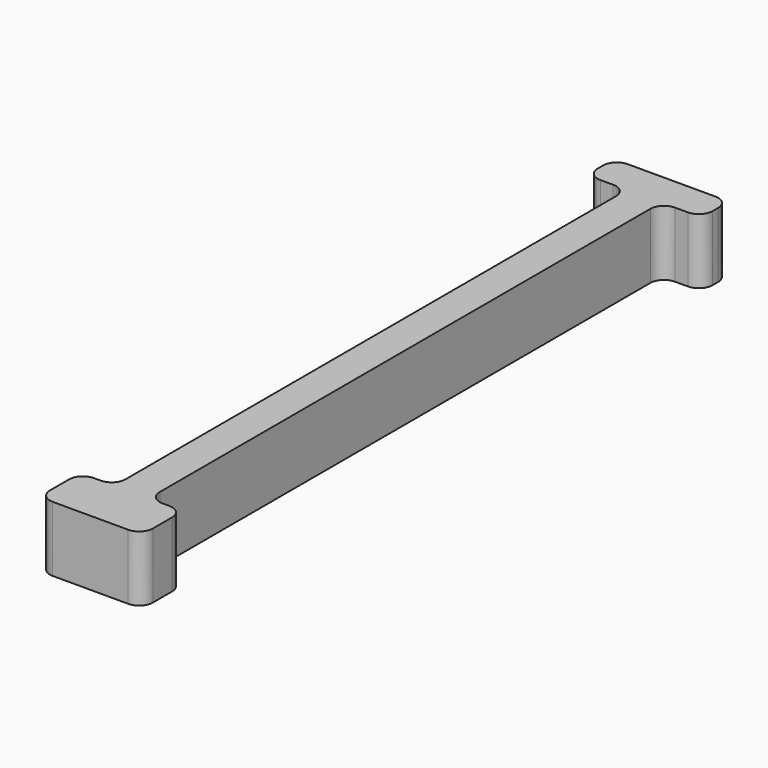
from build123d import *

# Parameters (mm, degrees)
PAD002_DEPTH    = 2
FILLET003_R     = 0.4
POCKET010_DEPTH = 0.1


with BuildPart() as part:
    # Sketch009 → Pad002 (new body)
    with BuildSketch(Plane.XY):
        Polygon((-1.675, -0.66), (1.675, -0.66), (1.675, -1.66), (0.5, -1.66), (0.5, -20.32), (1.5, -20.32), (1.5, -21.82), (-1.5, -21.82), (-1.5, -20.32), (-0.5, -20.32), (-0.5, -1.66), (-1.675, -1.66), align=None)
    extrude(amount=PAD002_DEPTH)

    # Fillet003
    fillet003_edges = [part.edges().sort_by_distance(p)[0] for p in [
        (-1.675, -1.66, 1),
        (-1.675, -0.66, 1),
        (1.675, -0.66, 1),
        (1.675, -1.66, 1),
        (0.5, -1.66, 1),
        (-0.5, -1.66, 1),
        (-0.5, -20.32, 1),
        (-1.5, -20.32, 1),
        (-1.5, -21.82, 1),
        (1.5, -21.82, 1),
        (1.5, -20.32, 1),
        (0.5, -20.32, 1),
    ]]
    fillet(fillet003_edges, radius=FILLET003_R)

    # Fillet003 Face5 → Pocket010 (cut)
    with BuildSketch(Plane(origin=(0, -11.4600006044, 2), x_dir=(0, 1, 0), z_dir=(0, 0, 1))):
        with BuildLine():
            Line((9.8000006044, 1.275), (9.8000006044, 0.9))
            ThreePointArc((9.8000006044, 0.9), (9.6828433168, 0.6171572875), (9.4000006044, 0.5))
            Line((9.4000006044, 0.5), (-8.4599993956, 0.5))
            ThreePointArc((-8.4599993956, 0.5), (-8.7428421081, 0.6171572875), (-8.8599993956, 0.9))
            Line((-8.8599993956, 0.9), (-8.8599993956, 1.1))
            ThreePointArc((-8.8599993956, 1.1), (-8.9771566832, 1.3828427125), (-9.2599993956, 1.5))
            Line((-9.2599993956, 1.5), (-9.9599993956, 1.5))
            ThreePointArc((-9.9599993956, 1.5), (-10.2428421081, 1.3828427125), (-10.3599993956, 1.1))
            Line((-10.3599993956, 1.1), (-10.3599993956, -1.1))
            ThreePointArc((-10.3599993956, -1.1), (-10.2428421081, -1.3828427125), (-9.9599993956, -1.5))
            Line((-9.9599993956, -1.5), (-9.2599993956, -1.5))
            ThreePointArc((-9.2599993956, -1.5), (-8.9771566832, -1.3828427125), (-8.8599993956, -1.1))
            Line((-8.8599993956, -1.1), (-8.8599993956, -0.9))
            ThreePointArc((-8.8599993956, -0.9), (-8.7428421081, -0.6171572875), (-8.4599993956, -0.5))
            Line((-8.4599993956, -0.5), (9.4000006044, -0.5))
            ThreePointArc((9.4000006044, -0.5), (9.6828433168, -0.6171572875), (9.8000006044, -0.9))
            Line((9.8000006044, -0.9), (9.8000006044, -1.275))
            ThreePointArc((9.8000006044, -1.275), (9.9171578919, -1.5578427125), (10.2000006044, -1.675))
            Line((10.2000006044, -1.675), (10.4000006044, -1.675))
            ThreePointArc((10.4000006044, -1.675), (10.6828433168, -1.5578427125), (10.8000006044, -1.275))
            Line((10.8000006044, -1.275), (10.8000006044, 1.275))
            ThreePointArc((10.8000006044, 1.275), (10.6828433168, 1.5578427125), (10.4000006044, 1.675))
            Line((10.4000006044, 1.675), (10.2000006044, 1.675))
            ThreePointArc((10.2000006044, 1.675), (9.9171578919, 1.5578427125), (9.8000006044, 1.275))
        make_face()
    extrude(amount=-POCKET010_DEPTH, mode=Mode.SUBTRACT)


with BuildPart() as part_1:
    # Body002 placement: moved
    add(part.part.moved(Location((0, 0, 3))))


solid = part_1.part
